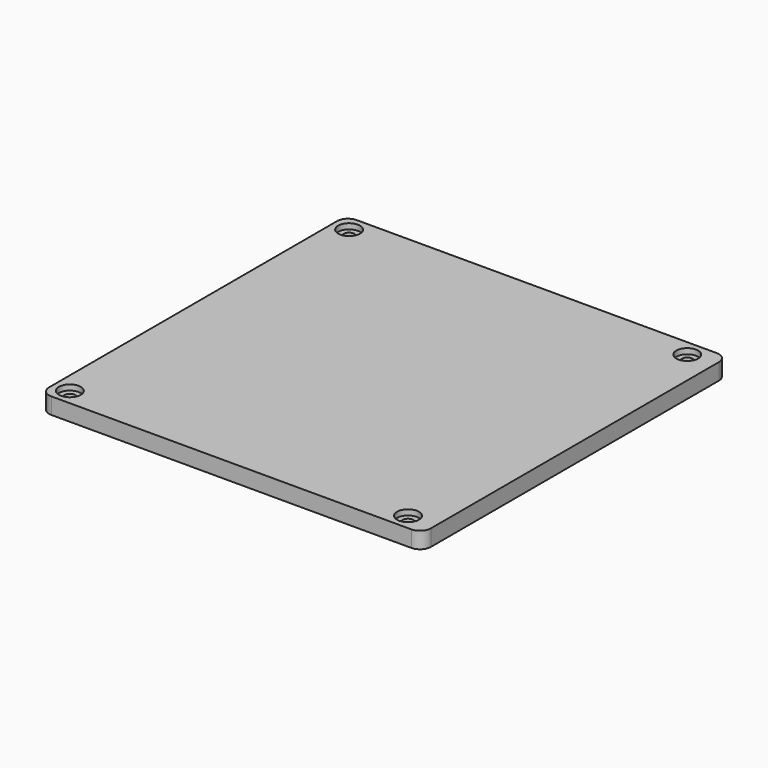
from build123d import *

# Parameters (mm, degrees)
SKETCH_W        = 70
SKETCH_H        = 70
PAD_DEPTH       = 3
FILLET_R        = 2
FILLET001_R     = 2
FILLET002_R     = 2
FILLET003_R     = 2
SKETCH001_R     = 1
POCKET_DEPTH    = 5
SKETCH002_R     = 2
POCKET001_DEPTH = 1


with BuildPart() as part:
    # Sketch → Pad (new body)
    with BuildSketch(Plane.XY):
        with Locations((-35, 35)):
            Rectangle(SKETCH_W, SKETCH_H)
    extrude(amount=PAD_DEPTH)

    # Fillet
    fillet_edges = [part.edges().sort_by_distance(p)[0] for p in [
        (0, 70, 1.5),
    ]]
    fillet(fillet_edges, radius=FILLET_R)

    # Fillet001
    fillet001_edges = [part.edges().sort_by_distance(p)[0] for p in [
        (-70, 70, 1.5),
    ]]
    fillet(fillet001_edges, radius=FILLET001_R)

    # Fillet002
    fillet002_edges = [part.edges().sort_by_distance(p)[0] for p in [
        (-70, 0, 1.5),
    ]]
    fillet(fillet002_edges, radius=FILLET002_R)

    # Fillet003
    fillet003_edges = [part.edges().sort_by_distance(p)[0] for p in [
        (0, 0, 1.5),
    ]]
    fillet(fillet003_edges, radius=FILLET003_R)

    # Sketch001 → Pocket (cut)
    with BuildSketch(Plane.XY.offset(3)):
        with Locations((-5, 67)):
            Circle(SKETCH001_R)
        with Locations((-67, 67)):
            Circle(SKETCH001_R)
        with Locations((-5, 3)):
            Circle(SKETCH001_R)
        with Locations((-67, 3)):
            Circle(SKETCH001_R)
    extrude(amount=-POCKET_DEPTH, mode=Mode.SUBTRACT)

    # Sketch002 → Pocket001 (cut)
    with BuildSketch(Plane.XY.offset(3)):
        with Locations((-67, 67)):
            Circle(SKETCH002_R)
        with Locations((-5, 67)):
            Circle(SKETCH002_R)
        with Locations((-67, 3)):
            Circle(SKETCH002_R)
        with Locations((-5, 3)):
            Circle(SKETCH002_R)
    extrude(amount=-POCKET001_DEPTH, mode=Mode.SUBTRACT)


solid = part.part
